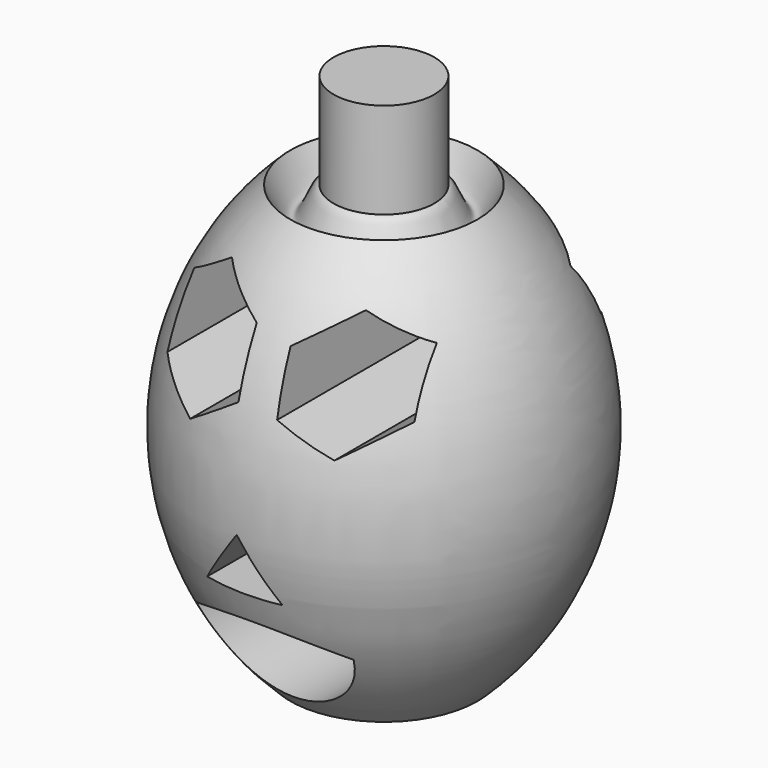
from build123d import *

# Parameters (mm, degrees)
F2_R     = 11.0758489904
F3_DEPTH = 114.3
F5_DEPTH = 469.9


with BuildPart() as f1:
    # F0 (on Front) → F1 (revolve)
    with BuildSketch(Plane.XZ):
        with BuildLine():
            Line((0, 89.3677696586), (0, 0))
            Line((0, 0), (20.591173321, 0))
            ThreePointArc((20.591173321, 0), (40.6415068424, 46.6066747904), (20.591173321, 93.2133495808))
            add(Edge.make_bspline(
                [(20.591173321, 93.2133495808), (18.7577284682, 89.4553018013), (15.1399751822, 82.0399221226), (11.807621021, 99.0461535157), (3.4854955303, 83.0706354136), (0.9970992228, 87.5663421121), (0, 89.3677696586)],
                knots=[0, 0, 0, 0, 0.261457833, 0.5159085822, 0.806024798, 1, 1, 1, 1], degree=3))
        make_face()
    revolve(axis=Axis((0, 0, 44.6838848293), (0, 0, -1)))

    # F2 (on Top) → F3 (join)
    with BuildSketch(Plane.XY):
        Circle(F2_R)
    extrude(amount=F3_DEPTH)

    # F4 (on Front) → F5 (cut, symmetric)
    with BuildSketch(Plane.XZ):
        Polygon((26.3139173462, 78.638642816), (15.4418259786, 83.8383438307), (5.502707124, 77.0226870214), (6.435679637, 65.0073291975), (17.3077710046, 59.8076281828), (27.2468898592, 66.6232849921), align=None)
        Polygon((7.7780308202, 29.657876119), (0, 41.9389754534), (-9.006138891, 29.657876119), align=None)
        with BuildLine():
            ThreePointArc((-18.4216499329, 18.1955154985), (-0.2779930332, 3.9861821268), (17.1935390681, 19.014256075))
            ThreePointArc((17.1935390681, 19.014256075), (-0.7270212138, 23.5188936817), (-18.4216499329, 18.1955154985))
        make_face()
        Polygon((-13.8043448256, 84.6826113726), (-24.6764361932, 77.794375274), (-24.1470944283, 64.9347499081), (-12.7456612958, 58.9633606408), (-1.8735699282, 65.8515967395), (-2.4029116931, 78.7112221054), align=None)
    extrude(amount=F5_DEPTH, both=True, mode=Mode.SUBTRACT)


solid = f1.part
